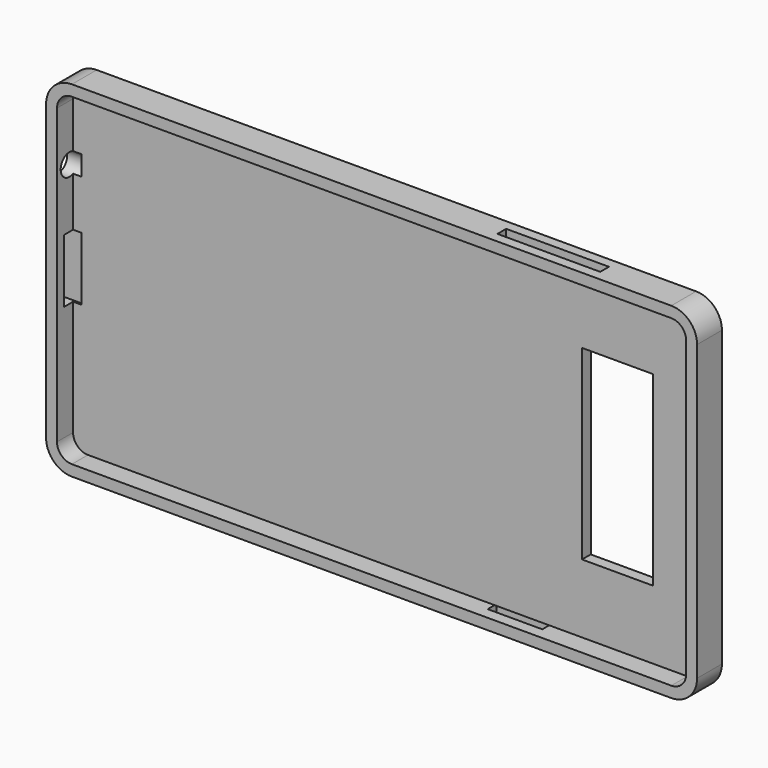
from build123d import *

# Parameters (mm, degrees)
F1_DEPTH  = 7.1
F2_T      = -2.5
F4_DEPTH  = 25
F5_W      = 12.5
F5_H      = 1.25
F6_DEPTH  = 2.5
F7_W      = 23.5
F7_H      = 1.25
F8_DEPTH  = 2.5
F9_W      = 1.5
F9_H      = 7.25
F9_R      = 2.5
F10_DEPTH = 4.4


with BuildPart() as f1:
    # F0 (on Front) → F1 (new body)
    with BuildSketch(Plane.XZ):
        with BuildLine():
            Line((68.55, 39.5), (-68.55, 39.5))
            ThreePointArc((-68.55, 39.5), (-72.72193, 37.77193), (-74.45, 33.6))
            Line((-74.45, 33.6), (-74.45, -33.6))
            ThreePointArc((-74.45, -33.6), (-72.72193, -37.77193), (-68.55, -39.5))
            Line((-68.55, -39.5), (68.55, -39.5))
            ThreePointArc((68.55, -39.5), (72.72193, -37.77193), (74.45, -33.6))
            Line((74.45, -33.6), (74.45, 33.6))
            ThreePointArc((74.45, 33.6), (72.72193, 37.77193), (68.55, 39.5))
        make_face()
    extrude(amount=-F1_DEPTH)

    # F2
    f2_openings = [f1.faces().sort_by_distance(p)[0] for p in [
        (0, 0, 0),
    ]]
    offset(amount=F2_T, openings=f2_openings)

    # F3 (on Front) → F4 (cut)
    with BuildSketch(Plane.XZ):
        Polygon((60.65, 21.3), (44.45, 21.3), (44.45, 0), (44.45, -21.3), (60.65, -21.3), (60.65, 0), align=None)
    extrude(amount=-F4_DEPTH, mode=Mode.SUBTRACT)

    # F5 (on face) → F6 (cut)
    with BuildSketch(Plane(origin=(0, 0, -39.5), x_dir=(1, 0, 0), z_dir=(0, 0, -1))):
        with Locations((30.7, -3.245512)):
            Rectangle(F5_W, F5_H)
        with Locations((30.7, -4.495512)):
            Rectangle(F5_W, F5_H)
    extrude(amount=-F6_DEPTH, mode=Mode.SUBTRACT)

    # F7 (on face) → F8 (cut)
    with BuildSketch(Plane.XY.offset(39.5)):
        with Locations((38.7, 2.925)):
            Rectangle(F7_W, F7_H)
        with Locations((38.7, 4.175)):
            Rectangle(F7_W, F7_H)
    extrude(amount=-F8_DEPTH, mode=Mode.SUBTRACT)

    # F9 (on face) → F10 (cut)
    with BuildSketch(Plane(origin=(-74.45, 0, 0), x_dir=(0, -1, 0), z_dir=(-1, 0, 0))):
        with Locations((-4.3, -3.625)):
            Rectangle(F9_W, F9_H)
        with Locations((-2.8, -3.625)):
            Rectangle(F9_W, F9_H)
        Polygon((-3.55, 0), (-2.05, 0), (-2.05, 7.25), (-3.55, 7.25), (-5.05, 7.25), (-5.05, 0), align=None)
        with Locations((-3.55, 20.8)):
            Circle(F9_R)
    extrude(amount=-F10_DEPTH, mode=Mode.SUBTRACT)


solid = f1.part
